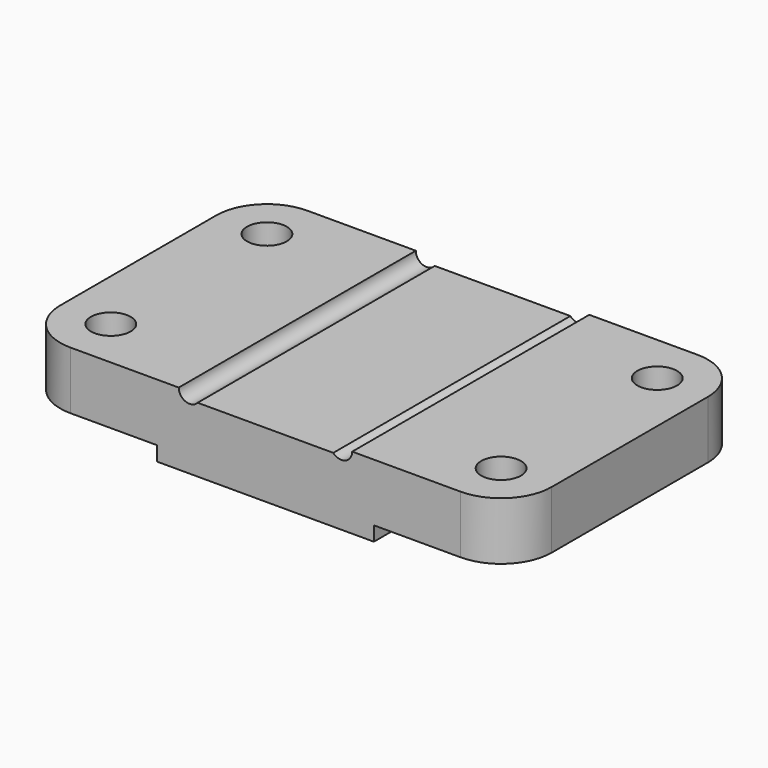
from build123d import *

# Parameters (mm, degrees)
F1_DEPTH = 82
F2_R     = 5.5
F3_DEPTH = 16.001
F4_R     = 14
F5_R     = 14


with BuildPart() as f1:
    # F0 (on Front) → F1 (new body)
    with BuildSketch(Plane.XZ):
        with BuildLine():
            Line((0, 16), (0, 0))
            Line((0, 0), (38, 0))
            Line((38, 0), (38, -4))
            Line((38, -4), (98, -4))
            Line((98, -4), (98, 0))
            Line((98, 0), (136, 0))
            Line((136, 0), (136, 16))
            Line((136, 16), (92, 16))
            ThreePointArc((92, 16), (90.070466, 13.197483), (86.763932, 14))
            Line((86.763932, 14), (49.236068, 14))
            ThreePointArc((49.236068, 14), (45.929534, 13.197483), (44, 16))
            Line((44, 16), (0, 16))
        make_face()
    extrude(amount=-F1_DEPTH)

    # F2 (on Top) → F3 (cut, through all)
    with BuildSketch(Plane.XY):
        with Locations((14, 68)):
            Circle(F2_R)
        with Locations((14, 14)):
            Circle(F2_R)
        with Locations((122, 68)):
            Circle(F2_R)
        with Locations((122, 14)):
            Circle(F2_R)
    extrude(amount=F3_DEPTH, mode=Mode.SUBTRACT)

    # F4
    f4_edges = [f1.edges().sort_by_distance(p)[0] for p in [
        (136, 0, 8),
        (136, 82, 8),
    ]]
    fillet(f4_edges, radius=F4_R)

    # F5
    f5_edges = [f1.edges().sort_by_distance(p)[0] for p in [
        (0, 0, 8),
        (0, 82, 8),
    ]]
    fillet(f5_edges, radius=F5_R)


solid = f1.part
